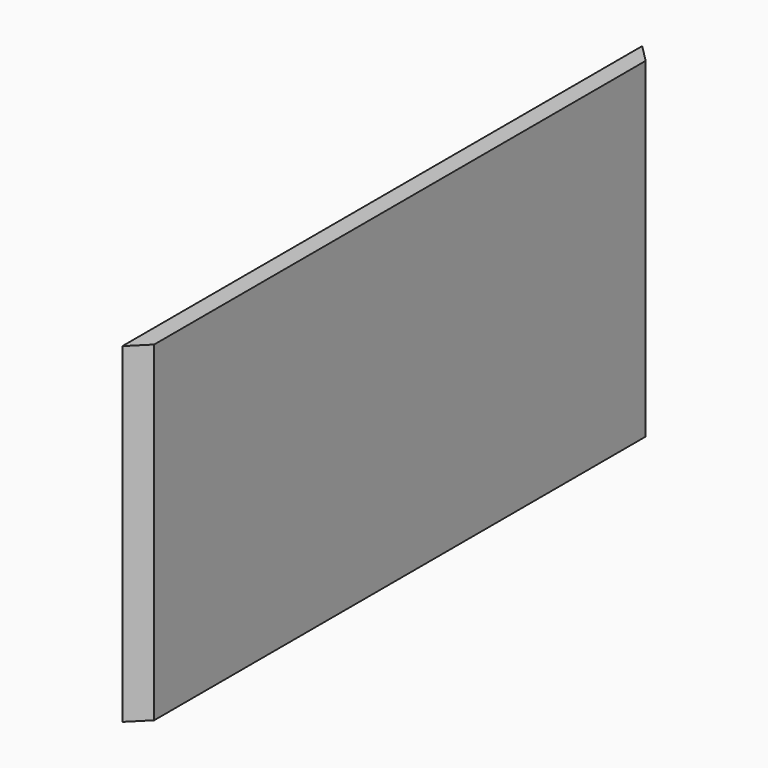
from build123d import *

# Parameters (mm, degrees)
F0_W     = 3987.8
F0_H     = 114.3
F1_DEPTH = 1066.8
F3_W     = 114.3
F3_H     = 3962.4
F4_DEPTH = 1066.8


with BuildPart() as f1:
    # F0 (on Top) → F1 (new body, symmetric)
    with BuildSketch(Plane.XY):
        Polygon((-2108.2, 57.15), (-1993.9, -57.15), (-1993.9, 57.15), align=None)
        Rectangle(F0_W, F0_H)
        Polygon((1993.9, 57.15), (1993.9, -57.15), (2108.2, 57.15), align=None)
    extrude(amount=F1_DEPTH, both=True)


with BuildPart() as f4:
    # F3 (on Top) → F4 (new body, symmetric)
    with BuildSketch(Plane.XY):
        Polygon((-57.15, -2095.5), (57.15, -1981.2), (-57.15, -1981.2), (-57.15, -2002.2456645966), align=None)
        Rectangle(F3_W, F3_H)
        Polygon((-57.15, 1981.2), (57.15, 1981.2), (-57.15, 2095.5), (-57.15, 2002.329826355), align=None)
    extrude(amount=F4_DEPTH, both=True)


solid = f4.part
